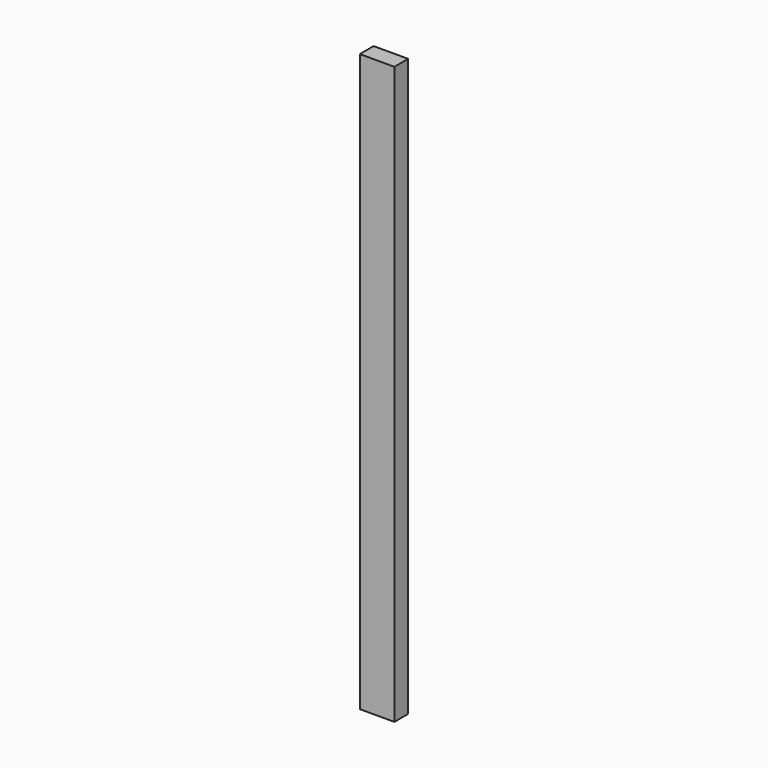
from build123d import *

# Parameters (mm, degrees)
SKETCH_W  = 100
SKETCH_H  = 50
PAD_DEPTH = 835


with BuildPart() as part:
    # Sketch → Pad (new body, symmetric)
    with BuildSketch(Plane.XY):
        Rectangle(SKETCH_W, SKETCH_H)
    extrude(amount=PAD_DEPTH, both=True)


solid = part.part
